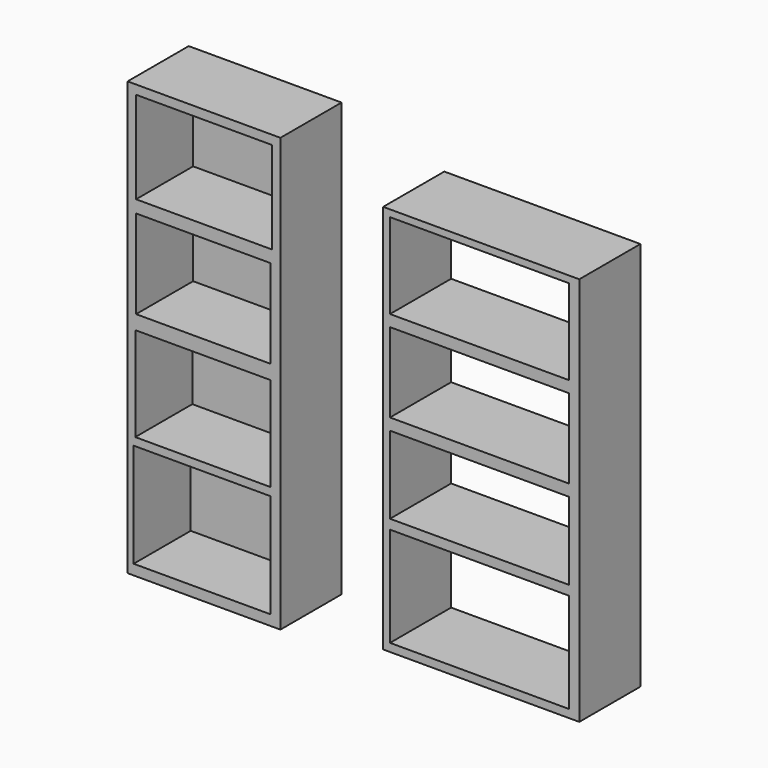
from build123d import *

# Parameters (mm, degrees)
F0_W     = 60
F0_H     = 170
F1_DEPTH = 30
F2_W     = 53.441137
F2_H     = 36.129229
F2_W_2   = 52.688449
F2_H_2   = 34.807842
F2_W_3   = 53.00492
F2_H_3   = 36.974358
F2_W_4   = 53.637862
F2_H_4   = 40.824387
F3_DEPTH = 28
F4_W     = 77
F4_H     = 153
F5_DEPTH = 30
F6_W     = 70.376717
F6_H     = 33.4948
F6_H_2   = 31.236724
F6_H_3   = 30.438377
F6_H_4   = 39.13999
F7_DEPTH = 30


with BuildPart() as f1:
    # F0 (on Front) → F1 (new body)
    with BuildSketch(Plane.XZ):
        with Locations((-189.837261, -5.624914)):
            Rectangle(F0_W, F0_H)
    extrude(amount=F1_DEPTH)

    # F2 (on face) → F3 (cut)
    with BuildSketch(Plane.XZ.offset(30)):
        with Locations((-189.788923, 57.764958)):
            Rectangle(F2_W, F2_H)
        with Locations((-190.165267, 17.403921)):
            Rectangle(F2_W_2, F2_H_2)
        with Locations((-190.323502, -24.112093)):
            Rectangle(F2_W_3, F2_H_3)
        with Locations((-190.639973, -66.176144)):
            Rectangle(F2_W_4, F2_H_4)
    extrude(amount=-F3_DEPTH, mode=Mode.SUBTRACT)


with BuildPart() as f5:
    # F4 (on Front) → F5 (new body)
    with BuildSketch(Plane.XZ):
        with Locations((-80.986474, -7.859042)):
            Rectangle(F4_W, F4_H)
    extrude(amount=F5_DEPTH)

    # F6 (on face) → F7 (cut)
    with BuildSketch(Plane.XZ.offset(30)):
        with Locations((-81.618015, 49.203046)):
            Rectangle(F6_W, F6_H)
        with Locations((-81.618015, 12.321129)):
            Rectangle(F6_W, F6_H_2)
        with Locations((-81.618015, -23.078231)):
            Rectangle(F6_W, F6_H_3)
        with Locations((-81.618015, -61.630873)):
            Rectangle(F6_W, F6_H_4)
    extrude(amount=-F7_DEPTH, mode=Mode.SUBTRACT)


solid = Compound([f1.part, f5.part])
